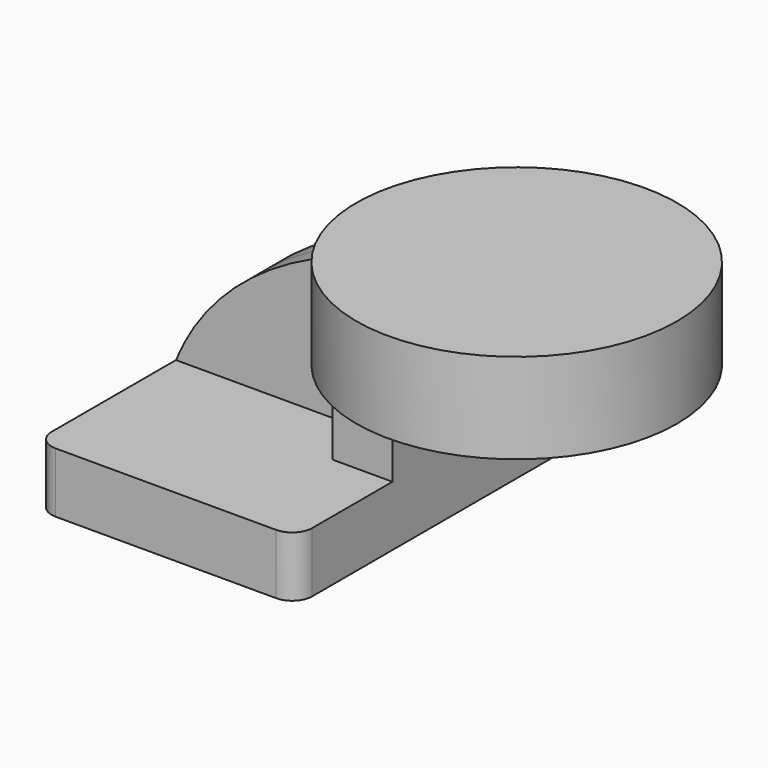
from build123d import *

# Parameters (mm, degrees)
F1_DEPTH = 63.5
F2_DEPTH = 25.4
F3_DEPTH = 7.9375
F5_R     = 6.35


with BuildPart() as f1:
    # F0 (on Front) → F1 (new body, symmetric)
    with BuildSketch(Plane.XZ):
        Polygon((-41.275, -9.525), (41.275, -9.525), (41.275, 9.525), (22.225, 9.525), (-41.275, 9.525), align=None)
    extrude(amount=F1_DEPTH, both=True)

    # F0 (on Front) → F2 (join, symmetric)
    with BuildSketch(Plane.XZ):
        with BuildLine():
            Line((22.225, 9.525), (41.275, 9.525))
            Line((41.275, 9.525), (41.275, 22.81095))
            ThreePointArc((41.275, 22.81095), (46.796103, 36.644574), (60.325, 42.8752))
            Line((60.325, 42.8752), (60.325, 61.9252))
            Line((60.325, 61.9252), (59.912667, 61.9252))
            ThreePointArc((59.912667, 61.9252), (33.179972, 49.969212), (22.225, 22.81095))
            Line((22.225, 22.81095), (22.225, 9.525))
        make_face()
    extrude(amount=F2_DEPTH, both=True)

    # F0 (on Front) → F3 (join, symmetric)
    with BuildSketch(Plane.XZ):
        with BuildLine():
            add(Edge.make_bspline(
                [(-41.275, 9.525), (-25.498318, 48.070595), (22.572279, 65.208808), (59.912667, 61.9252)],
                knots=[0, 0, 0, 0, 113.950537, 113.950537, 113.950537, 113.950537], degree=3))
            Line((-41.275, 9.525), (22.225, 9.525))
            Line((22.225, 9.525), (22.225, 22.81095))
            ThreePointArc((22.225, 22.81095), (33.179972, 49.969212), (59.912667, 61.9252))
        make_face()
    extrude(amount=F3_DEPTH, both=True)

    # F0 (on Front) → F4 (revolve)
    with BuildSketch(Plane.XZ):
        Polygon((84.855057, 42.8752), (60.325, 42.8752), (60.325, 38.1), (111.125, 38.1), (111.125, 66.675), (60.325, 66.675), (60.325, 61.9252), (84.855057, 61.9252), align=None)
    revolve(axis=Axis((60.325, 0, 52.3875), (0, 0, 1)))

    # F5
    f5_edges = [f1.edges().sort_by_distance(p)[0] for p in [
        (-41.275, -63.5, 0),
        (41.275, -63.5, 0),
        (-41.275, 63.5, 0),
        (41.275, 63.5, 0),
    ]]
    fillet(f5_edges, radius=F5_R)


solid = f1.part
